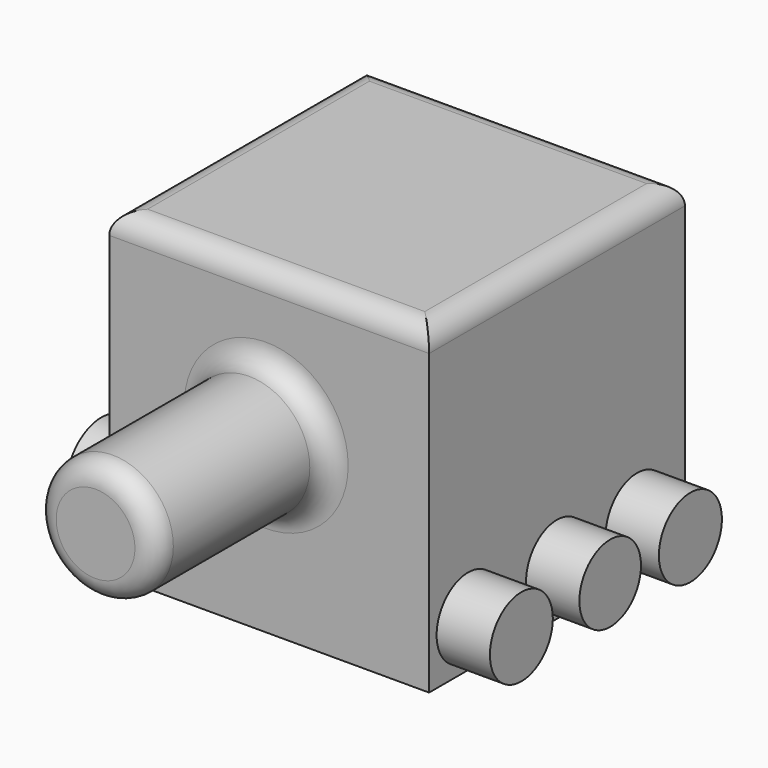
from build123d import *

# Parameters (mm, degrees)
F0_W     = 76.2
F0_H     = 76.2
F1_DEPTH = 76.2
F2_R     = 9.369728
F2_R_2   = 9.17149
F2_R_3   = 9.38841
F3_DEPTH = 12.7
F4_R     = 9.608386
F4_R_2   = 10.038357
F4_R_3   = 10.58565
F5_DEPTH = 12.7
F7_R     = 14.461772
F8_DEPTH = 50.8
F9_R     = 5.08
F10_R    = 5.08


with BuildPart() as f1:
    # F0 (on Front) → F1 (new body)
    with BuildSketch(Plane.XZ):
        with Locations((9.859052, 6.848907)):
            Rectangle(F0_W, F0_H)
    extrude(amount=F1_DEPTH)

    # F2 (on face) → F3 (join)
    with BuildSketch(Plane.YZ.offset(47.959052)):
        with Locations((-64.596206, -20.121291)):
            Circle(F2_R)
        with Locations((-38.147401, -19.647298)):
            Circle(F2_R_2)
        with Locations((-14.258158, -19.742096)):
            Circle(F2_R_3)
    extrude(amount=F3_DEPTH)

    # F4 (on face) → F5 (join)
    with BuildSketch(Plane(origin=(-28.240948, 0, 0), x_dir=(0, -1, 0), z_dir=(-1, 0, 0))):
        with Locations((13.120575, -19.078506)):
            Circle(F4_R)
        with Locations((37.863005, -18.509716)):
            Circle(F4_R_2)
        with Locations((62.700234, -18.509716)):
            Circle(F4_R_3)
    extrude(amount=F5_DEPTH)

    # F7 (on face) → F8 (join)
    with BuildSketch(Plane.XZ.offset(76.2)):
        with Locations((9.136391, 10.073723)):
            Circle(F7_R)
    extrude(amount=F8_DEPTH)

    # F9
    f9_edges = [f1.edges().sort_by_distance(p)[0] for p in [
        (23.598163, -101.6, 10.073723),
        (-5.325381, -76.2, 10.073723),
        (-5.325381, -127, 10.073723),
    ]]
    fillet(f9_edges, radius=F9_R)

    # F10
    f10_edges = [f1.edges().sort_by_distance(p)[0] for p in [
        (47.959052, -38.1, 44.948907),
        (-28.240948, -38.1, 44.948907),
        (9.859052, 0, 44.948907),
        (9.859052, -76.2, 44.948907),
    ]]
    fillet(f10_edges, radius=F10_R)


solid = f1.part
